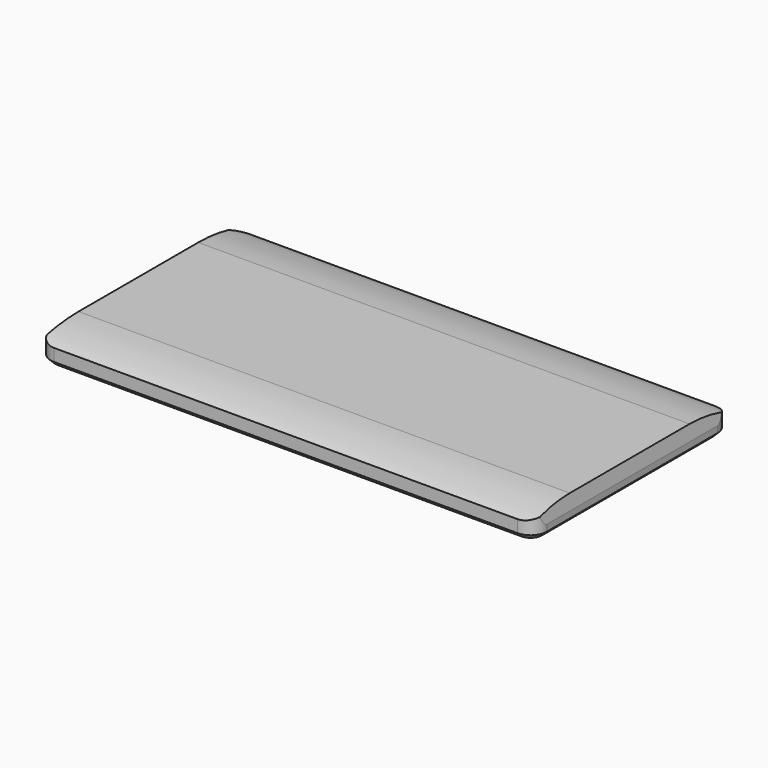
from build123d import *

# Parameters (mm, degrees)
PAD010_DEPTH    = 153
POCKET014_DEPTH = 7.751
CHAMFER012_SIZE = 1.5
POCKET015_DEPTH = 75.751


with BuildPart() as part:
    # Sketch036 → Pad010 (new body)
    with BuildSketch(Plane.YZ):
        with BuildLine():
            Line((0, 0), (75.75, 0))
            Line((75.75, 0), (75.75, 5.3))
            ThreePointArc((75.75, 5.3), (68.451436, 7.13336), (60.951436, 7.75))
            Line((37.875, 7.75), (60.951436, 7.75))
            Line((14.798564, 7.75), (37.875, 7.75))
            ThreePointArc((14.798564, 7.75), (7.298564, 7.133361), (0, 5.3))
            Line((0, 0), (0, 5.3))
        make_face()
    extrude(amount=PAD010_DEPTH)

    # Sketch037 (on Face1 of Pad010) → Pocket014 (cut, through all)
    with BuildSketch(Plane.YX):
        with BuildLine():
            Line((0, 148.000024), (0, 153))
            Line((0, 153), (5.000024, 153))
            ThreePointArc((5.000024, 153), (1.464483, 151.535551), (0, 148.000024))
        make_face()
        with BuildLine():
            Line((70.749977, 153), (75.75, 153))
            Line((75.75, 153), (75.75, 148.000023))
            ThreePointArc((75.75, 148.000023), (74.285518, 151.53555), (70.749977, 153))
        make_face()
        with BuildLine():
            Line((75.75, 5.000005), (75.75, 0))
            Line((70.750005, 0), (75.75, 0))
            ThreePointArc((70.750005, 0), (74.285537, 1.464469), (75.75, 5.000005))
        make_face()
        with BuildLine():
            Line((5, 0), (0, 0))
            Line((0, 0), (0, 5))
            ThreePointArc((0, 5), (1.464466, 1.464466), (5, 0))
        make_face()
    extrude(amount=-POCKET014_DEPTH, mode=Mode.SUBTRACT)

    # Chamfer012
    chamfer012_edges = [part.edges().sort_by_distance(p)[0] for p in [
        (1.464466, 1.464466, 0),
        (0, 37.875002, 0),
        (1.464469, 74.285537, 0),
        (76.500014, 75.75, 0),
        (151.53555, 74.285518, 0),
        (153, 37.875001, 0),
        (151.535551, 1.464483, 0),
        (76.500012, 0, 0),
    ]]
    chamfer(chamfer012_edges, length=CHAMFER012_SIZE)

    # Sketch038 (on Face11 of Chamfer012) → Pocket015 (cut, through all)
    with BuildSketch(Plane(origin=(0, 0, 0), x_dir=(0, 0, -1), z_dir=(0, -1, 0))):
        Polygon((-3.5, 0), (-7.75, 0.74939), (-7.75, 0), align=None)
        Polygon((-3.5, 153), (-7.75, 152.25061), (-7.75, 153), align=None)
    extrude(amount=-POCKET015_DEPTH, mode=Mode.SUBTRACT)


solid = part.part
